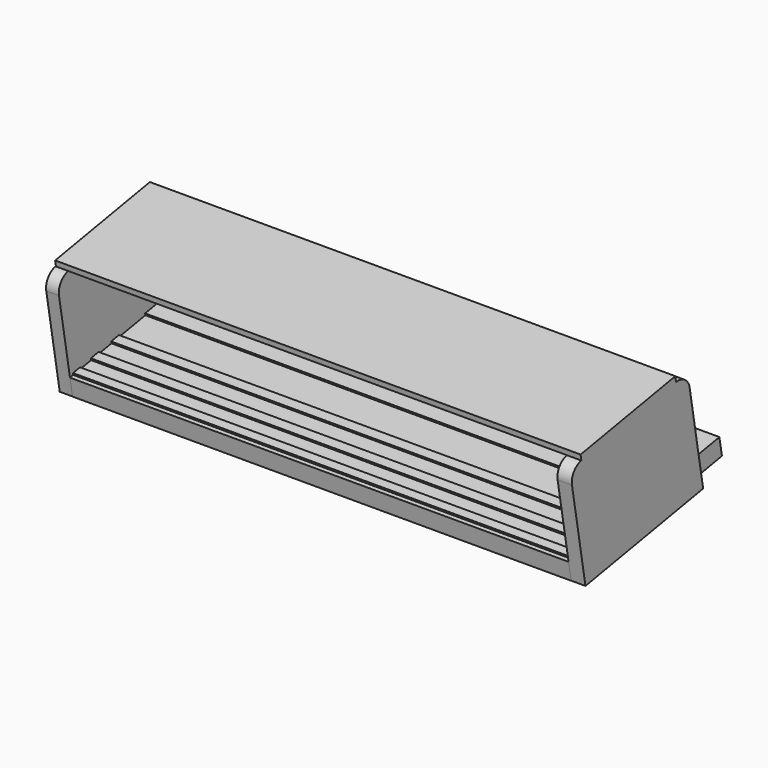
from build123d import *

# Parameters (mm, degrees)
F0_W          = 174.6804863214
F0_H          = 6.394301774
F1_DEPTH      = 67.056
F2_ANGLE      = 10
F3_W          = 174.6804863214
F3_H          = 6.0367527984
F3_H_2        = 3.3486538234
F3_H_3        = 4.6590082347
F3_H_4        = 3.4464076161
F3_H_5        = 3.4266933799
F3_H_6        = 3.1117796898
F4_DEPTH      = 0.635
F5_DEPTH      = 32.766
F5_DEPTH_BACK = 6.35
F6_R          = 5.08
F7_W          = 5.0366173964
F7_H          = 42.1194909459
F7_W_2        = 179.0462706704
F8_DEPTH      = 2.032


with BuildPart() as f1:
    # F0 (on Front) → F1 (new body)
    with BuildSketch(Plane.XZ):
        with Locations((4.4365723152, 0.0675924821)):
            Rectangle(F0_W, F0_H)
    extrude(amount=F1_DEPTH)


with BuildPart() as f1_1:
    # F2: moved
    add(f1.part.rotate(Axis((4.4365723152, 0, 3.2647433691), (1, 0, 0)), F2_ANGLE))

    # F3 (on face) → F4 (join)
    with BuildSketch(Plane(origin=(0, -0.5583039975, 3.1662993109), x_dir=(1, 0, 0), z_dir=(0, -0.1736481777, 0.984807753))):
        with Locations((4.4365723152, -17.1857467104)):
            Rectangle(F3_W, F3_H)
        with Locations((4.4365723152, -31.2867563517)):
            Rectangle(F3_W, F3_H_2)
        with Locations((4.4365723152, -27.2829253227)):
            Rectangle(F3_W, F3_H_3)
        with Locations((4.4365723152, -46.3344976306)):
            Rectangle(F3_W, F3_H_4)
        with Locations((4.4365723152, -55.3813166916)):
            Rectangle(F3_W, F3_H_5)
        with Locations((4.4365723152, -63.4787082672)):
            Rectangle(F3_W, F3_H_6)
    extrude(amount=F4_DEPTH)

    # F3 (on face) → F5 (join, two sides)
    with BuildSketch(Plane(origin=(0, -0.5583039975, 3.1662993109), x_dir=(1, 0, 0), z_dir=(0, -0.1736481777, 0.984807753))) as f5_sk:
        Polygon((-82.9036708456, -66.4890832634), (-82.9036708456, -65.0345981121), (-82.9036708456, -61.9228184223), (-82.9036708456, -57.0946633816), (-82.9036708456, -53.6679700017), (-82.9036708456, -48.0577014387), (-82.9036708456, -44.6112938225), (-82.9036708456, -36.0245257616), (-82.9036708456, -32.9610832634), (-82.9036708456, -29.61242944), (-82.9036708456, -24.9534212053), (-82.9036708456, -20.2041231096), (-82.9036708456, -14.1673703112), (-87.36910671, -14.1673703112), (-87.36910671, -66.4890832634), align=None)
        Polygon((91.7768154759, -61.9228184223), (91.7768154759, -65.0345981121), (91.7768154759, -66.4890832634), (96.8134328723, -66.4890832634), (96.8134328723, -14.1673703112), (91.7768154759, -14.1673703112), (91.7768154759, -20.2041231096), (91.7768154759, -24.9534212053), (91.7768154759, -29.61242944), (91.7768154759, -32.9610832634), (91.7768154759, -36.0245257616), (91.7768154759, -44.6112938225), (91.7768154759, -48.0577014387), (91.7768154759, -53.6679700017), (91.7768154759, -57.0946633816), align=None)
    extrude(amount=F5_DEPTH)
    extrude(f5_sk.sketch, amount=-F5_DEPTH_BACK)

    # F6
    f6_edges = [f1_1.edges().sort_by_distance(p)[0] for p in [
        (94.295124, -20.200196, 32.974372),
        (-85.136389, -20.200196, 32.974372),
        (-85.136389, -71.727025, 23.888802),
        (94.295124, -71.727025, 23.888802),
    ]]
    fillet(f6_edges, radius=F6_R)

    # F7 (on face) → F8 (join)
    with BuildSketch(Plane(origin=(0, -6.2480601869, 35.4345101461), x_dir=(1, 0, 0), z_dir=(0, -0.1736481777, 0.984807753))):
        with Locations((94.2951241741, -40.3493377905)):
            Rectangle(F7_W, F7_H)
        with Locations((2.2536801407, -40.3493377905)):
            Rectangle(F7_W_2, F7_H)
    extrude(amount=F8_DEPTH)


solid = f1_1.part
